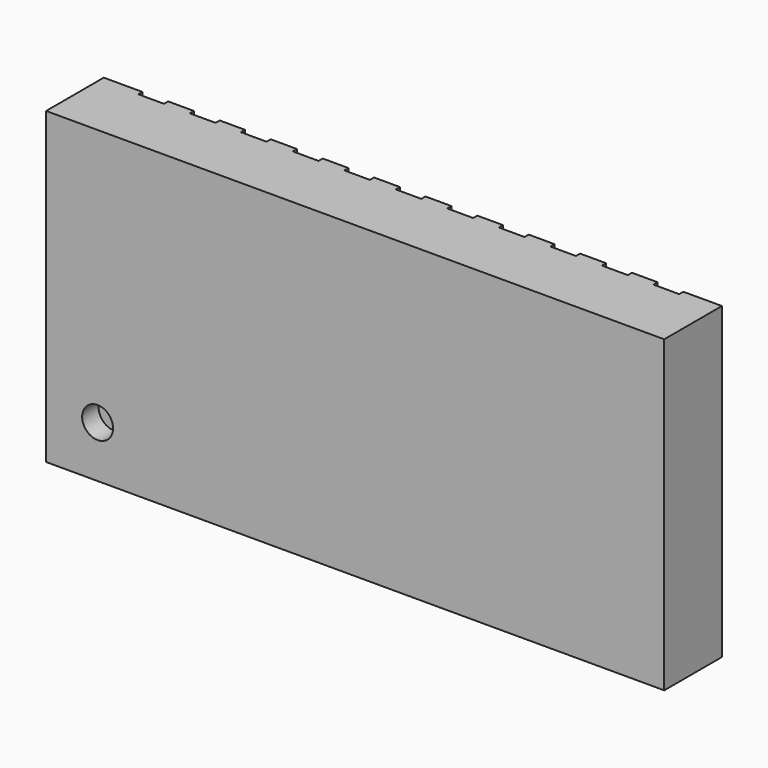
from build123d import *

# Parameters (mm, degrees)
F0_W     = 6
F0_H     = 3
F1_DEPTH = 0.7
F2_R     = 0.15
F3_DEPTH = 0.2
F4_W     = 0.249578
F4_H     = 0.359219
F4_W_2   = 0.25
F4_W_3   = 0.249593
F4_W_4   = 0.248513
F4_W_5   = 0.249608
F4_W_6   = 0.248528
F4_W_7   = 0.247448
F4_W_8   = 0.249623
F4_W_9   = 0.248526
F4_H_2   = 0.4
F4_W_10  = 0.249373
F4_W_11  = 0.247199
F4_W_12  = 0.248047
F5_DEPTH = 0.05


with BuildPart() as f1:
    # F0 (on Front) → F1 (new body)
    with BuildSketch(Plane.XZ):
        Rectangle(F0_W, F0_H)
    extrude(amount=F1_DEPTH)

    # F2 (on face) → F3 (cut)
    with BuildSketch(Plane.XZ.offset(0.7)):
        with Locations((-2.5, -1)):
            Circle(F2_R)
    extrude(amount=-F3_DEPTH, mode=Mode.SUBTRACT)

    # F4 (on face) → F5 (cut)
    with BuildSketch(Plane(origin=(0, 0, 0), x_dir=(-1, 0, 0), z_dir=(0, 1, 0))):
        Polygon((2.375, -1.5), (2.625657, -1.5), (2.625657, -1.140781), (2.625, -1.140781), (2.375, -1.140781), align=None)
        with Locations((1.999789, -1.320391)):
            Rectangle(F4_W, F4_H)
        with Locations((1.5, -1.320391)):
            Rectangle(F4_W_2, F4_H)
        with Locations((1, -1.320391)):
            Rectangle(F4_W_2, F4_H)
        with Locations((0.499796, -1.320391)):
            Rectangle(F4_W_3, F4_H)
        with Locations((-0.000744, -1.320391)):
            Rectangle(F4_W_4, F4_H)
        Polygon((-0.625, -1.5), (-0.374313, -1.5), (-0.374313, -1.140781), (-0.375, -1.140781), (-0.625, -1.140781), align=None)
        with Locations((-1.000196, -1.320391)):
            Rectangle(F4_W_5, F4_H)
        with Locations((-1.500736, -1.320391)):
            Rectangle(F4_W_6, F4_H)
        with Locations((-2.001276, -1.320391)):
            Rectangle(F4_W_7, F4_H)
        with Locations((-2.500189, -1.320391)):
            Rectangle(F4_W_8, F4_H)
        Polygon((-2.375, 1.1), (-2.375, 1.5), (-2.6257, 1.5), (-2.6257, 1.1), (-2.625, 1.1), align=None)
        Polygon((-1.875, 1.1), (-1.875, 1.5), (-2.126548, 1.5), (-2.126548, 1.1), (-2.125, 1.1), align=None)
        with Locations((-1.499263, 1.3)):
            Rectangle(F4_W_9, F4_H_2)
        with Locations((-0.999686, 1.3)):
            Rectangle(F4_W_10, F4_H_2)
        Polygon((-0.375, 1.1), (-0.375, 1.5), (-0.625221, 1.5), (-0.625221, 1.1), (-0.625, 1.1), align=None)
        with Locations((0.001401, 1.3)):
            Rectangle(F4_W_11, F4_H_2)
        with Locations((0.500976, 1.3)):
            Rectangle(F4_W_12, F4_H_2)
        with Locations((1, 1.3)):
            Rectangle(F4_W_2, F4_H_2)
        with Locations((1.504384, 1.3)):
            Rectangle(F4_W_2, F4_H_2)
        with Locations((2, 1.3)):
            Rectangle(F4_W_2, F4_H_2)
        with Locations((2.5, 1.3)):
            Rectangle(F4_W_2, F4_H_2)
    extrude(amount=-F5_DEPTH, mode=Mode.SUBTRACT)


solid = f1.part
